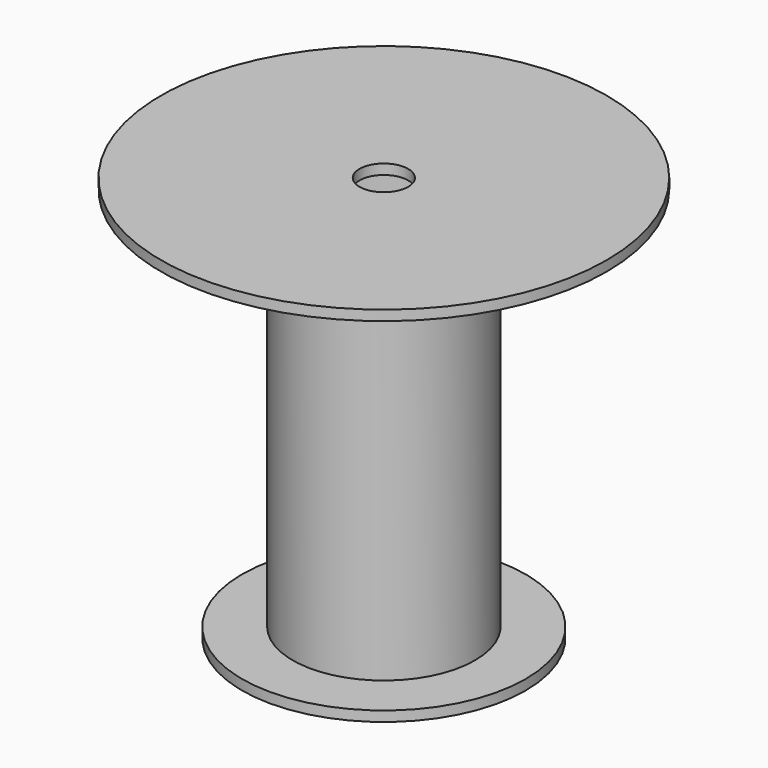
from build123d import *

# Parameters (mm, degrees)
F0_R     = 550
F0_R_2   = 60
F1_DEPTH = 25
F2_R     = 225
F2_R_2   = 200
F3_DEPTH = 950
F4_R     = 350
F4_R_2   = 225
F4_R_3   = 200
F4_R_4   = 60
F5_DEPTH = 25


with BuildPart() as f1:
    # F0 (on Top) → F1 (new body)
    with BuildSketch(Plane.XY):
        Circle(F0_R)
        Circle(F0_R_2, mode=Mode.SUBTRACT)
    extrude(amount=-F1_DEPTH)

    # F2 (on face) → F3 (join)
    with BuildSketch(Plane(origin=(0, 0, -25), x_dir=(1, 0, 0), z_dir=(0, 0, -1))):
        Circle(F2_R)
        Circle(F2_R_2, mode=Mode.SUBTRACT)
    extrude(amount=F3_DEPTH)

    # F4 (on face) → F5 (join)
    with BuildSketch(Plane(origin=(0, 0, -975), x_dir=(1, 0, 0), z_dir=(0, 0, -1))):
        Circle(F4_R)
        Circle(F4_R_2, mode=Mode.SUBTRACT)
        Circle(F4_R_2)
        Circle(F4_R_3, mode=Mode.SUBTRACT)
        Circle(F4_R_3)
        Circle(F4_R_4, mode=Mode.SUBTRACT)
    extrude(amount=F5_DEPTH)


solid = f1.part
